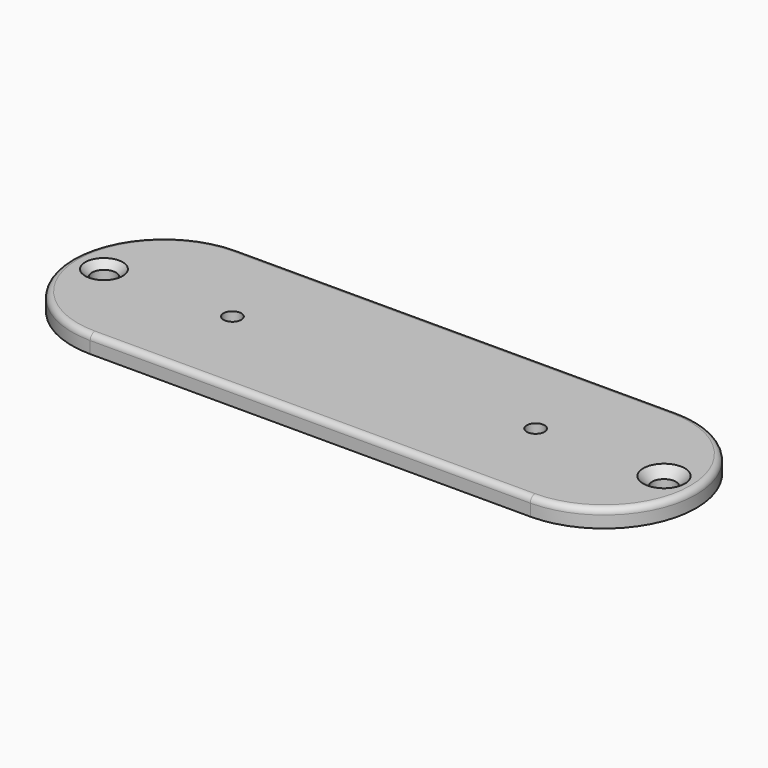
from build123d import *

# Parameters (mm, degrees)
F0_R     = 2
F0_R_2   = 1.5
F1_DEPTH = 3
F2_R     = 1
F3_SIZE  = 1.15
F4_SIZE  = 1.5


with BuildPart() as f1:
    # F0 (on Top) → F1 (new body)
    with BuildSketch(Plane.XY):
        with BuildLine():
            Line((-74, 0), (0, 0))
            ThreePointArc((0, 0), (15.5, 15.5), (0, 31))
            Line((0, 31), (-74, 31))
            ThreePointArc((-74, 31), (-89.5, 15.5), (-74, 0))
        make_face()
        with Locations((-84.09, 15.5)):
            Circle(F0_R, mode=Mode.SUBTRACT)
        with Locations((-62.5, 15.5)):
            Circle(F0_R_2, mode=Mode.SUBTRACT)
        with Locations((-11.5, 15.5)):
            Circle(F0_R_2, mode=Mode.SUBTRACT)
        with Locations((10.09, 15.5)):
            Circle(F0_R, mode=Mode.SUBTRACT)
    extrude(amount=F1_DEPTH)

    # F2
    f2_edges = [f1.edges().sort_by_distance(p)[0] for p in [
        (-89.5, 15.5, 3),
        (-37, 0, 3),
        (-37, 31, 3),
        (15.5, 15.5, 3),
    ]]
    fillet(f2_edges, radius=F2_R)

    # F3
    f3_edges = [f1.edges().sort_by_distance(p)[0] for p in [
        (-86.09, 15.5, 3),
    ]]
    chamfer(f3_edges, length=F3_SIZE)

    # F4
    f4_edges = [f1.edges().sort_by_distance(p)[0] for p in [
        (8.09, 15.5, 3),
    ]]
    chamfer(f4_edges, length=F4_SIZE)


solid = f1.part
